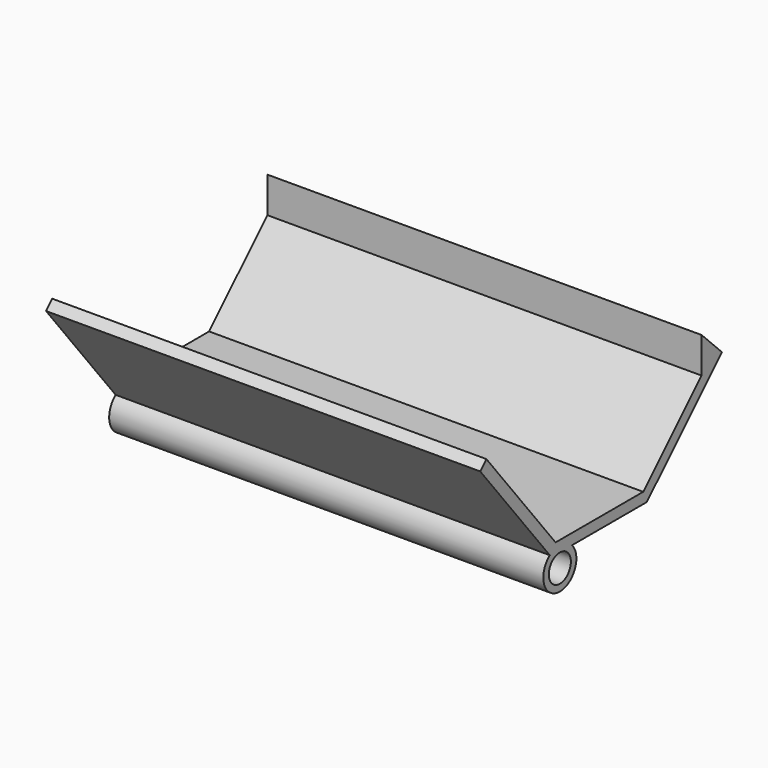
from build123d import *

# Parameters (mm, degrees)
F0_R     = 6.35
F1_DEPTH = 200


with BuildPart() as f1:
    # F0 (on Right) → F1 (new body)
    with BuildSketch(Plane.YZ):
        with BuildLine():
            ThreePointArc((-5.7829078209, 7.568593141), (-4.2215771937, -8.5383787101), (9.525, 0))
            ThreePointArc((9.525, 0), (8.8822194716, 3.4397386904), (7.0406320718, 6.4152260311))
            Line((7.0406320718, 6.4152260311), (-4.86379717, 6.4152260311))
            Line((-4.86379717, 6.4152260311), (-5.7829078209, 7.568593141))
        make_face()
        Circle(F0_R, mode=Mode.SUBTRACT)
        with BuildLine():
            Line((-4.86379717, 6.4152260311), (7.0406320718, 6.4152260311))
            ThreePointArc((7.0406320718, 6.4152260311), (0.8532476167, 9.4867061462), (-5.7829078209, 7.568593141))
            Line((-5.7829078209, 7.568593141), (-4.86379717, 6.4152260311))
        make_face()
        with BuildLine():
            ThreePointArc((-5.7829078209, 7.568593141), (0.8532476167, 9.4867061462), (7.0406320718, 6.4152260311))
            Line((7.0406320718, 6.4152260311), (50.0992612617, 6.4152260311))
            Line((50.0992612617, 6.4152260311), (93.3420076617, 49.6579724311))
            Line((93.3420076617, 49.6579724311), (85.4284786876, 57.5715014053))
            Line((85.4284786876, 57.5715014053), (81.5560158427, 61.4152260311))
            Line((81.5560158427, 61.4152260311), (81.5560158427, 44.943048424))
            Line((81.5560158427, 44.943048424), (48.0281934499, 11.4152260311))
            Line((48.0281934499, 11.4152260311), (-2.454831837, 11.4152260311))
            Line((-2.454831837, 11.4152260311), (-42.2995024128, 61.4152260311))
            Line((-42.2995024128, 61.4152260311), (-45.8575500686, 57.8571783753))
            Line((-45.8575500686, 57.8571783753), (-5.7829078209, 7.568593141))
        make_face()
    extrude(amount=F1_DEPTH)


solid = f1.part
